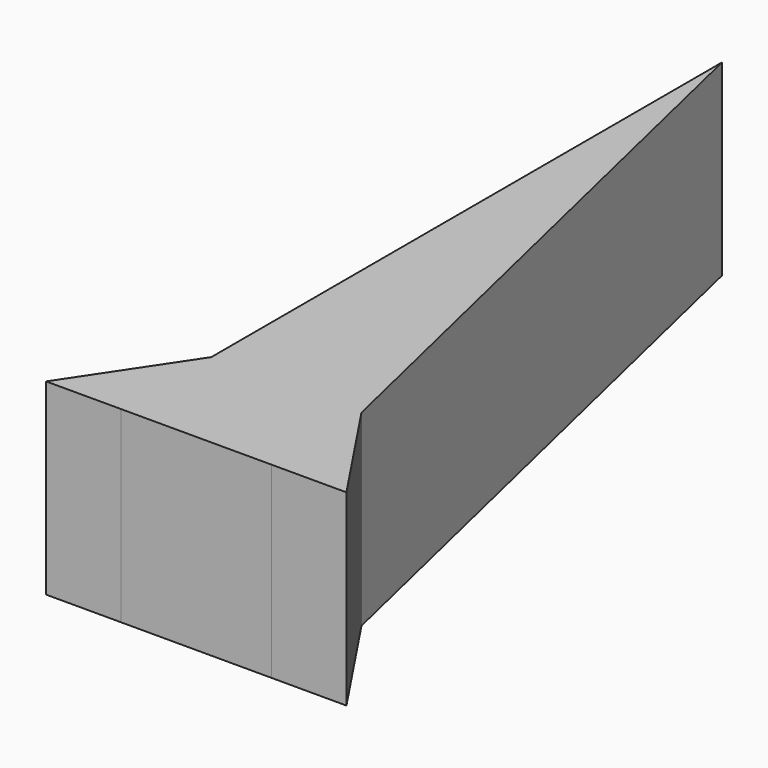
from build123d import *

# Parameters (mm, degrees)
F0_W     = 20
F0_H     = 15
F1_DEPTH = 25


with BuildPart() as f1:
    # F0 (on Top) → F1 (new body)
    with BuildSketch(Plane.XY):
        Polygon((-6.619532, 52.380648), (-6.624972, -32.619352), (13.375028, -32.619352), align=None)
        with Locations((3.375028, -40.119352)):
            Rectangle(F0_W, F0_H)
        Polygon((-6.624972, -47.619352), (-6.624972, -32.619352), (-16.624971, -47.622049), align=None)
        Polygon((23.375028, -47.622049), (13.375028, -32.619352), (13.375028, -47.619352), align=None)
    extrude(amount=-F1_DEPTH)


solid = f1.part
